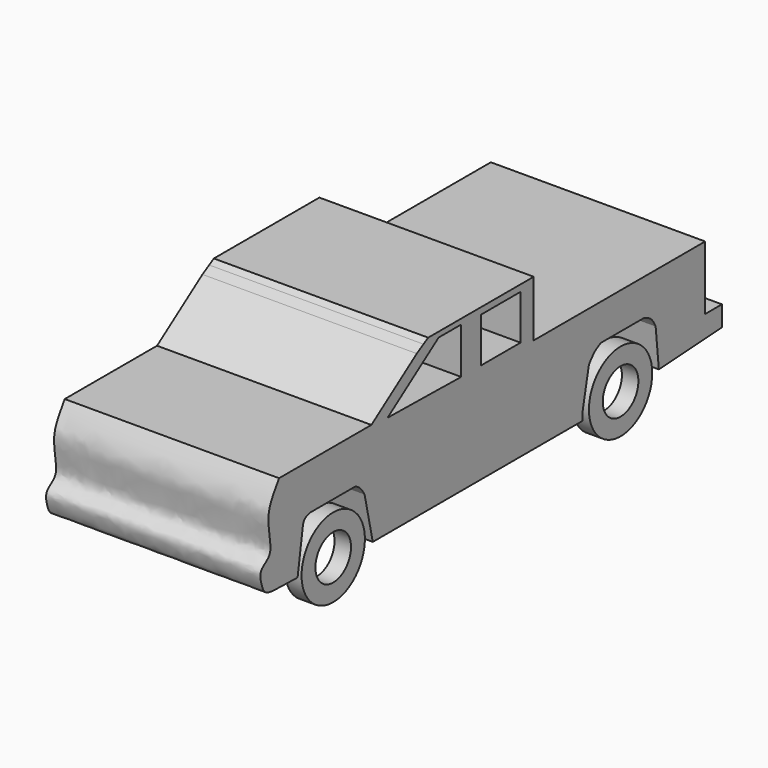
from build123d import *

# Parameters (mm, degrees)
F0_W     = 14.9999984481
F0_H     = 13.5688162344
F1_DEPTH = 65
F0_R     = 10.5
F0_R_2   = 6.75
F2_DEPTH = 5
F0_R_3   = 12
F3_DEPTH = 5


with BuildPart() as f1:
    # F0 (on Right) → F1 (new body)
    with BuildSketch(Plane.YZ):
        with BuildLine():
            Line((13.6168329716, 19.3637886377), (-51.3831670284, 19.3637886377))
            Line((-51.3831670284, 19.3637886377), (-51.3831670284, -7.6362113623))
            Line((-51.3831670284, -7.6362113623), (-50.3831670284, -7.6362113623))
            Line((-50.3831670284, -7.6362113623), (-37.3831670284, -7.6362113623))
            Line((-37.3831670284, -7.6362113623), (-32.9554889213, -7.6362113623))
            Line((-32.9554889213, -7.6362113623), (-30.4554889213, 4.3626378955))
            add(Edge.make_bspline(
                [(-25.9120240808, 8.3626378955), (-26.7340935226, 7.9471925583), (-28.4577103209, 7.076136507), (-29.7694015341, 5.2945215247), (-30.4554889213, 4.3626378955)],
                knots=[0, 0, 0, 0, 0.4769444361, 1, 1, 1, 1], degree=3))
            Line((-25.9120240808, 8.3626378955), (-18.2893068268, 8.3626378955))
            Line((-18.2893068268, 8.3626378955), (-9.74352099, 8.3626378955))
            add(Edge.make_bspline(
                [(-9.74352099, 8.3626378955), (-8.7483018502, 8.0324388543), (-6.7235586512, 7.3606589052), (-5.6921692008, 5.373202623), (-5.1677371375, 4.3626378955)],
                knots=[0, 0, 0, 0, 0.4915285753, 1, 1, 1, 1], degree=3))
            Line((-5.1677371375, 4.3626378955), (-3.9555160886, -7.6617459406))
            Line((-3.9555160886, -7.6617459406), (19.9634600431, -6.1754914932))
            Line((19.9634600431, -6.1754914932), (19.9634600431, 0))
            Line((19.9634600431, 0), (13.6168329716, 0))
            Line((13.6168329716, 0), (13.6168329716, 5.8132377453))
            Line((13.6168329716, 5.8132377453), (13.6168329716, 16.6227482259))
            Line((13.6168329716, 16.6227482259), (13.6168329716, 19.3637886377))
        make_face()
        Polygon((-51.3831670284, -7.6362113623), (-51.3831670284, 19.3637886377), (-51.3831670284, 36.3637886377), (-54.3831670284, 36.3637886377), (-54.3831670284, 32.9090120468), (-54.3831670284, 21.235744), (-54.3831670284, 20.7949716274), (-54.3831670284, -7.6362113623), align=None)
        Polygon((-54.3831670284, 32.9090120468), (-54.3831670284, 36.3637886377), (-73.3831670284, 36.3637886377), (-73.3831670284, 20.7949716274), (-73.3831670284, -7.6362113623), (-54.3831670284, -7.6362113623), (-54.3831670284, 20.7949716274), (-54.3831670284, 21.235744), align=None)
        with Locations((-63.8831670284, 27.5793797446)):
            Rectangle(F0_W, F0_H, mode=Mode.SUBTRACT)
        Polygon((-73.3831670284, 20.7949716274), (-73.3831670284, 36.3637886377), (-91.3831670284, 36.3637886377), (-93.1555780102, 35.3404866803), (-90.1094796242, 35.3404866803), (-108.3831670284, 22.5451130089), (-108.3831670284, -7.6362113623), (-73.3831670284, -7.6362113623), align=None)
        Polygon((-79.8739611272, 20.8107742901), (-106.7662461772, 21.235744), (-87.4216623646, 34.7809674092), (-78.8739611272, 34.7809674092), (-78.8739611272, 33.7809674092), (-78.8739611272, 21.7950964817), (-78.8739611272, 20.7949716274), align=None, mode=Mode.SUBTRACT)
        Polygon((-90.1094796242, 35.3404866803), (-93.1555780102, 35.3404866803), (-95.7132940473, 33.8637886377), (-112.9154869774, 21.8186834744), (-108.3831670284, 22.5451130089), align=None)
        with BuildLine():
            Line((-50.3831670284, -7.6362113623), (-51.3831670284, -7.6362113623))
            Line((-51.3831670284, -7.6362113623), (-54.3831670284, -7.6362113623))
            Line((-54.3831670284, -7.6362113623), (-73.3831670284, -7.6362113623))
            Line((-73.3831670284, -7.6362113623), (-108.3831670284, -7.6362113623))
            Line((-108.3831670284, -7.6362113623), (-108.3831670284, 22.5451130089))
            Line((-108.3831670284, 22.5451130089), (-112.9154869774, 21.8186834744))
            Line((-112.9154869774, 21.8186834744), (-147.9154869774, 21.8186834744))
            add(Edge.make_bspline(
                [(-147.9154869774, 21.8186834744), (-149.1536564289, 19.67791006), (-154.0189609297, 14.0869836841), (-149.2849787354, 2.4163080317), (-155.5595316841, 0.5852340032), (-154.6775664328, -3.7540940806), (-153.1522320855, -7.9726665518), (-148.1667744767, -7.2170682005), (-140.8810786145, -7.5570856366)],
                knots=[0, 0, 0, 0, 0.192009274, 0.3969047545, 0.5297406286, 0.6512700234, 0.7654702459, 0.9854587223, 0.9854587223, 0.9854587223, 0.9854587223], degree=3))
            Line((-140.8810786145, -7.5570856366), (-139.0460431576, 4.3590777611))
            add(Edge.make_bspline(
                [(-136.1361294985, 7.8590777611), (-136.9627322848, 7.6432383208), (-138.6630008993, 7.1992705142), (-138.9160278292, 5.3231191572), (-139.0460431576, 4.3590777611)],
                knots=[0, 0, 0, 0, 0.4861601157, 1, 1, 1, 1], degree=3))
            Line((-136.1361294985, 7.8590777611), (-127.0469545254, 7.8590777611))
            Line((-127.0469545254, 7.8590777611), (-118.9482361078, 7.8590777611))
            add(Edge.make_bspline(
                [(-115.5044957995, 4.3590777611), (-116.029864992, 5.2079705346), (-117.0105401826, 6.7925478079), (-118.333851613, 7.5209135228), (-118.9482361078, 7.8590777611)],
                knots=[0, 0, 0, 0, 0.5357219164, 1, 1, 1, 1], degree=3))
            Line((-115.5044957995, 4.3590777611), (-112.3831670284, -9.6362113623))
            Line((-112.3831670284, -9.6362113623), (-73.3831670284, -9.6362113623))
            Line((-73.3831670284, -9.6362113623), (-32.9554889213, -9.6362113623))
            Line((-32.9554889213, -9.6362113623), (-32.9554889213, -7.6362113623))
            Line((-32.9554889213, -7.6362113623), (-37.3831670284, -7.6362113623))
            Line((-37.3831670284, -7.6362113623), (-50.3831670284, -7.6362113623))
        make_face()
    extrude(amount=-F1_DEPTH)


with BuildPart() as f2:
    # F0 (on Right) → F2 (new body)
    with BuildSketch(Plane.YZ):
        with BuildLine():
            ThreePointArc((-115.3831670284, -7.6362113623), (-127.3831670284, 4.3637886377), (-139.3831670284, -7.6362113623))
            ThreePointArc((-139.3831670284, -7.6362113623), (-127.3831670284, -19.6362113623), (-115.3831670284, -7.6362113623))
        make_face()
        with Locations((-127.3831670284, -7.6362113623)):
            Circle(F0_R, mode=Mode.SUBTRACT)
        with Locations((-127.3831670284, -7.6362113623)):
            Circle(F0_R)
        with Locations((-127.3831670284, -7.6362113623)):
            Circle(F0_R_2, mode=Mode.SUBTRACT)
    extrude(amount=-F2_DEPTH)


with BuildPart() as f3:
    # F0 (on Right) → F3 (new body)
    with BuildSketch(Plane.YZ):
        with Locations((-18.4554889213, -7.6362113623)):
            Circle(F0_R_3)
        with Locations((-18.4554889213, -7.6362113623)):
            Circle(F0_R, mode=Mode.SUBTRACT)
        with Locations((-18.4554889213, -7.6362113623)):
            Circle(F0_R)
        with Locations((-18.4554889213, -7.6362113623)):
            Circle(F0_R_2, mode=Mode.SUBTRACT)
    extrude(amount=-F3_DEPTH)


solid = Compound([f1.part, f2.part, f3.part])
